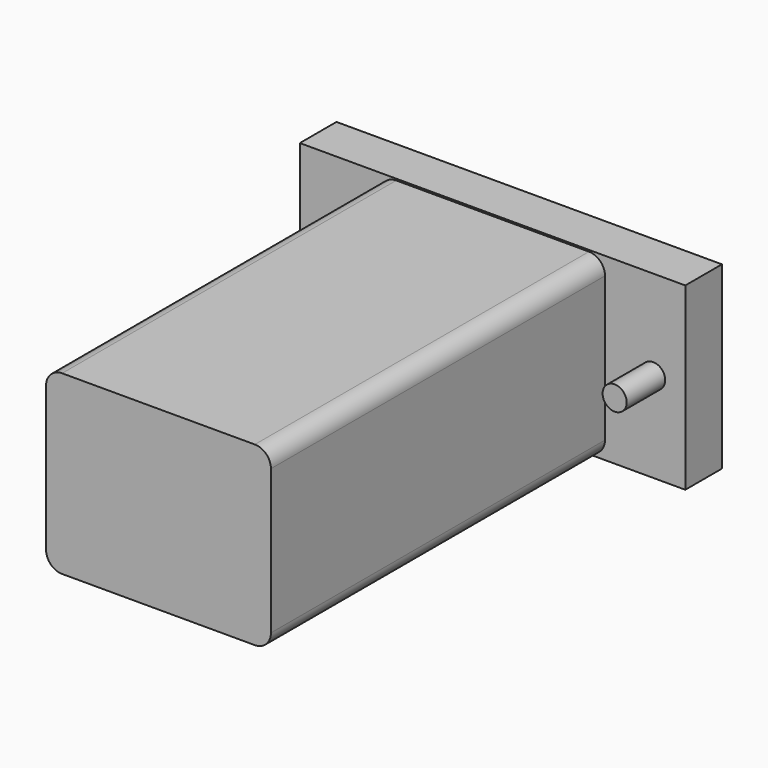
from build123d import *

# Parameters (mm, degrees)
SKETCH_W          = 28
SKETCH_H          = 22
PAD_DEPTH         = 52
FILLET_R          = 2
FILLET001_R       = 2
FILLET002_R       = 2
FILLET003_R       = 2
BOX_W             = 48
BOX_H             = 22.4
BOX_DEPTH         = 5.7
CYLINDER_R        = 1.5
CYLINDER_DEPTH    = 6
CYLINDER001_R     = 1.5
CYLINDER001_DEPTH = 6


with BuildPart() as part:
    # Sketch → Pad (new body)
    with BuildSketch(Plane.XZ):
        Rectangle(SKETCH_W, SKETCH_H)
    extrude(amount=PAD_DEPTH)

    # Fillet
    fillet_edges = [part.edges().sort_by_distance(p)[0] for p in [
        (-14, -26, 11),
    ]]
    fillet(fillet_edges, radius=FILLET_R)

    # Fillet001
    fillet001_edges = [part.edges().sort_by_distance(p)[0] for p in [
        (-14, -26, -11),
    ]]
    fillet(fillet001_edges, radius=FILLET001_R)

    # Fillet002
    fillet002_edges = [part.edges().sort_by_distance(p)[0] for p in [
        (14, -26, 11),
    ]]
    fillet(fillet002_edges, radius=FILLET002_R)

    # Fillet003
    fillet003_edges = [part.edges().sort_by_distance(p)[0] for p in [
        (14, -26, -11),
    ]]
    fillet(fillet003_edges, radius=FILLET003_R)

    # Box → Box (join)
    with BuildSketch(Plane(origin=(-24, 5.7, -11.2), x_dir=(1, 0, 0), z_dir=(0, -1, 0))):
        with Locations((24, 11.2)):
            Rectangle(BOX_W, BOX_H)
    extrude(amount=BOX_DEPTH)

    # Cylinder → Cylinder (join)
    with BuildSketch(Plane(origin=(-20, 0, 0), x_dir=(1, 0, 0), z_dir=(0, -1, 0))):
        Circle(CYLINDER_R)
    extrude(amount=CYLINDER_DEPTH)

    # Cylinder001 → Cylinder001 (join)
    with BuildSketch(Plane(origin=(20, 0, 0), x_dir=(1, 0, 0), z_dir=(0, -1, 0))):
        Circle(CYLINDER001_R)
    extrude(amount=CYLINDER001_DEPTH)


solid = part.part
